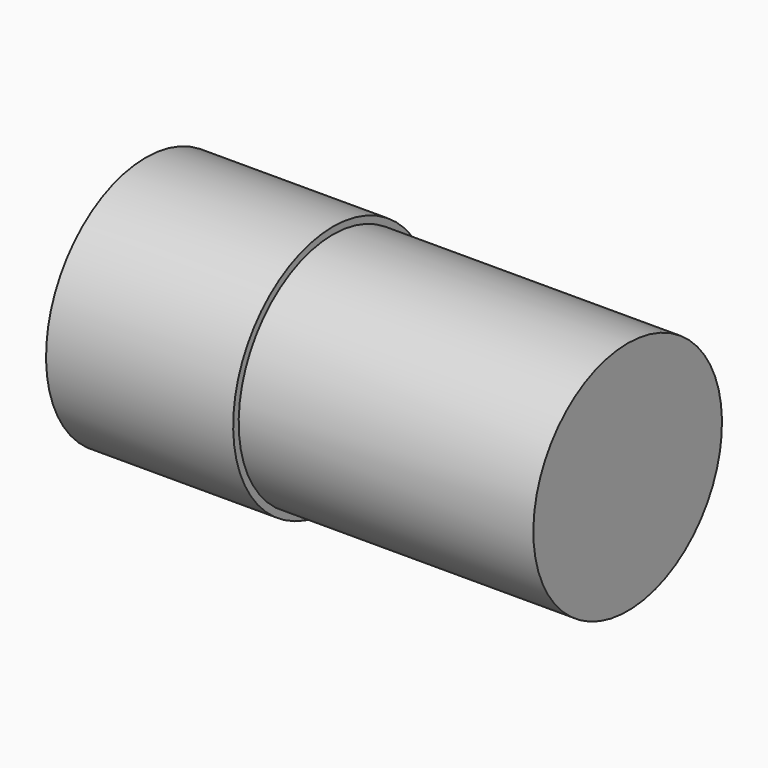
from build123d import *

# Parameters (mm, degrees)
F0_W = 30
F0_H = 12


with BuildPart() as f1:
    # F0 (on Front) → F1 (revolve)
    with BuildSketch(Plane.XZ):
        Polygon((0, 12.7), (0, 0), (19.05, 0), (19.05, 12), (19.05, 12.7), align=None)
        with Locations((34.05, 6)):
            Rectangle(F0_W, F0_H)
    revolve(axis=Axis((34.05, 0, 0), (1, 0, 0)))


solid = f1.part
